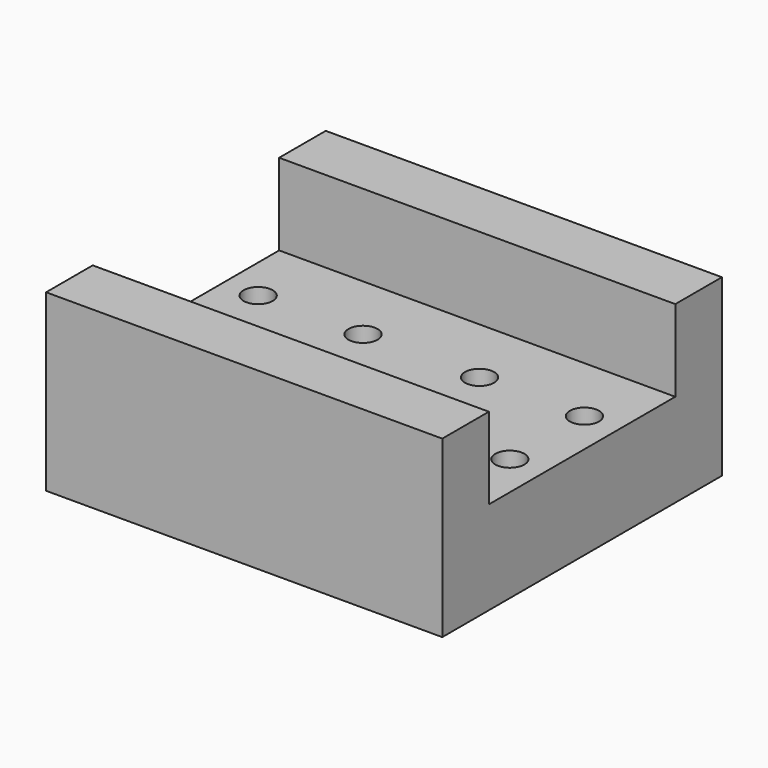
from build123d import *

# Parameters (mm, degrees)
CYLINDER065_R          = 1.25
CYLINDER065_DEPTH      = 10
CYLINDER066_R          = 1.25
CYLINDER066_DEPTH      = 10
CYLINDER067_R          = 1.25
CYLINDER067_DEPTH      = 10
CYLINDER068_R          = 1.25
CYLINDER068_DEPTH      = 10
CYLINDER070_R          = 1.25
CYLINDER070_DEPTH      = 10
CYLINDER069_R          = 1.25
CYLINDER069_DEPTH      = 10
CYLINDER063_R          = 1.25
CYLINDER063_DEPTH      = 10
CYLINDER064_R          = 1.25
CYLINDER064_DEPTH      = 10
BOX028_W               = 34
BOX028_H               = 8
BOX028_DEPTH           = 20
BOX029_W               = 34
BOX029_H               = 15
BOX029_DEPTH           = 5
BOX027_W               = 34
BOX027_H               = 15
BOX027_DEPTH           = 5
CUT031_PLACEMENT_ANGLE = 90


with BuildPart() as cylinder065:
    # Cylinder065 → Cylinder065 (new body)
    with BuildSketch(Plane(origin=(87.5, 61, 14), x_dir=(1, 0, 0), z_dir=(0, -1, 0))):
        Circle(CYLINDER065_R)
    extrude(amount=CYLINDER065_DEPTH)


with BuildPart() as cylinder066:
    # Cylinder066 → Cylinder066 (new body)
    with BuildSketch(Plane(origin=(87.5, 11, 14), x_dir=(1, 0, 0), z_dir=(0, -1, 0))):
        Circle(CYLINDER066_R)
    extrude(amount=CYLINDER066_DEPTH)


with BuildPart() as fusion056:
    # Fusion056 base: copy of Cylinder066
    add(cylinder066.part)

    # Fusion056: union Cylinder065
    add(cylinder065.part)


with BuildPart() as fusion056_1:
    # Fusion056 placement: moved
    add(fusion056.part.moved(Location((251.5, 0, 0))))


with BuildPart() as cylinder067:
    # Cylinder067 → Cylinder067 (new body)
    with BuildSketch(Plane(origin=(87.5, 61, 14), x_dir=(1, 0, 0), z_dir=(0, -1, 0))):
        Circle(CYLINDER067_R)
    extrude(amount=CYLINDER067_DEPTH)


with BuildPart() as cylinder068:
    # Cylinder068 → Cylinder068 (new body)
    with BuildSketch(Plane(origin=(87.5, 11, 14), x_dir=(1, 0, 0), z_dir=(0, -1, 0))):
        Circle(CYLINDER068_R)
    extrude(amount=CYLINDER068_DEPTH)


with BuildPart() as fusion057:
    # Fusion057 base: copy of Cylinder068
    add(cylinder068.part)

    # Fusion057: union Cylinder067
    add(cylinder067.part)


with BuildPart() as fusion057_1:
    # Fusion057 placement: moved
    add(fusion057.part.moved(Location((261.5, 0, 0))))


with BuildPart() as cylinder070:
    # Cylinder070 → Cylinder070 (new body)
    with BuildSketch(Plane(origin=(87.5, 61, 14), x_dir=(1, 0, 0), z_dir=(0, -1, 0))):
        Circle(CYLINDER070_R)
    extrude(amount=CYLINDER070_DEPTH)


with BuildPart() as cylinder069:
    # Cylinder069 → Cylinder069 (new body)
    with BuildSketch(Plane(origin=(87.5, 11, 14), x_dir=(1, 0, 0), z_dir=(0, -1, 0))):
        Circle(CYLINDER069_R)
    extrude(amount=CYLINDER069_DEPTH)


with BuildPart() as fusion055:
    # Fusion055 base: copy of Cylinder069
    add(cylinder069.part)

    # Fusion055: union Cylinder070
    add(cylinder070.part)


with BuildPart() as fusion055_1:
    # Fusion055 placement: moved
    add(fusion055.part.moved(Location((270.5, 0, 0))))


with BuildPart() as cylinder063:
    # Cylinder063 → Cylinder063 (new body)
    with BuildSketch(Plane(origin=(87.5, 61, 14), x_dir=(1, 0, 0), z_dir=(0, -1, 0))):
        Circle(CYLINDER063_R)
    extrude(amount=CYLINDER063_DEPTH)


with BuildPart() as cylinder064:
    # Cylinder064 → Cylinder064 (new body)
    with BuildSketch(Plane(origin=(87.5, 11, 14), x_dir=(1, 0, 0), z_dir=(0, -1, 0))):
        Circle(CYLINDER064_R)
    extrude(amount=CYLINDER064_DEPTH)


with BuildPart() as fusion065:
    # Fusion058 base: copy of Cylinder064
    add(cylinder064.part)

    # Fusion058: union Cylinder063
    add(cylinder063.part)


with BuildPart() as fusion065_1:
    # Fusion058 placement: moved
    add(fusion065.part.moved(Location((242.5, 0, 0))))

    # Fusion065: union Fusion056, Fusion057, Fusion055
    add(fusion056_1.part)
    add(fusion057_1.part)
    add(fusion055_1.part)


with BuildPart() as fusion065_2:
    # Fusion065 placement: moved
    add(fusion065_1.part.moved(Location((0, 0, -8))))


with BuildPart() as fusion050:
    # Fusion050 base: copy of Cylinder066
    add(cylinder066.part)

    # Fusion050: union Cylinder065
    add(cylinder065.part)


with BuildPart() as fusion050_1:
    # Fusion050 placement: moved
    add(fusion050.part.moved(Location((251.5, 0, 0))))


with BuildPart() as fusion051:
    # Fusion051 base: copy of Cylinder068
    add(cylinder068.part)

    # Fusion051: union Cylinder067
    add(cylinder067.part)


with BuildPart() as fusion051_1:
    # Fusion051 placement: moved
    add(fusion051.part.moved(Location((261.5, 0, 0))))


with BuildPart() as fusion052:
    # Fusion052 base: copy of Cylinder069
    add(cylinder069.part)

    # Fusion052: union Cylinder070
    add(cylinder070.part)


with BuildPart() as fusion052_1:
    # Fusion052 placement: moved
    add(fusion052.part.moved(Location((270.5, 0, 0))))


with BuildPart() as fusion063:
    # Fusion049 base: copy of Cylinder064
    add(cylinder064.part)

    # Fusion049: union Cylinder063
    add(cylinder063.part)


with BuildPart() as fusion063_1:
    # Fusion049 placement: moved
    add(fusion063.part.moved(Location((242.5, 0, 0))))

    # Fusion064: union Fusion050, Fusion051, Fusion052
    add(fusion050_1.part)
    add(fusion051_1.part)
    add(fusion052_1.part)

    # Fusion063: union Fusion065
    add(fusion065_2.part)


with BuildPart() as fusion063_2:
    # Fusion063 placement: moved
    add(fusion063_1.part.moved(Location((0, -10, 0))))


with BuildPart() as cube007:
    # Box028 → Box028 (new body)
    with BuildSketch(Plane(origin=(0, -10, 0), x_dir=(1, 0, 0), z_dir=(0, 0, 1))):
        with Locations((17, 4)):
            Rectangle(BOX028_W, BOX028_H)
    extrude(amount=BOX028_DEPTH)


with BuildPart() as cube008:
    # Box029 → Box029 (new body)
    with BuildSketch(Plane(origin=(0, -10, 20), x_dir=(1, 0, 0), z_dir=(0, 0, 1))):
        with Locations((17, 7.5)):
            Rectangle(BOX029_W, BOX029_H)
    extrude(amount=BOX029_DEPTH)


with BuildPart() as cut031:
    # Box027 → Box027 (new body)
    with BuildSketch(Plane(origin=(0, -10, -5), x_dir=(1, 0, 0), z_dir=(0, 0, 1))):
        with Locations((17, 7.5)):
            Rectangle(BOX027_W, BOX027_H)
    extrude(amount=BOX027_DEPTH)

    # Fusion067: union Cube007, Cube008
    add(cube007.part)
    add(cube008.part)


with BuildPart() as cut031_1:
    # Fusion067 placement: moved
    add(cut031.part.moved(Location((327, 2, 0))))

    # Cut031: cut Fusion063
    add(fusion063_2.part, mode=Mode.SUBTRACT)


with BuildPart() as cut031_2:
    # Cut031 placement: moved
    add(cut031_1.part.moved(Location((0, -10, 0))).rotate(Axis((0, -10, 0), (1, 0, 0)), CUT031_PLACEMENT_ANGLE))


solid = cut031_2.part
